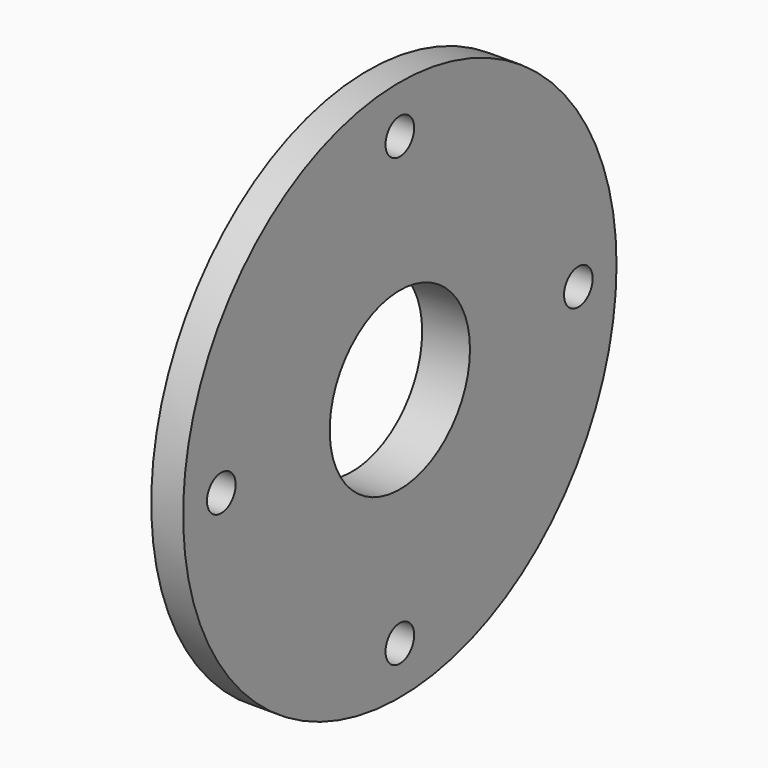
from build123d import *

# Parameters (mm, degrees)
F0_R     = 53.9496
F1_DEPTH = 6.35
F2_R     = 25.9715
F3_DEPTH = 3.175
F4_R     = 17.4625
F5_DEPTH = 9.526
F6_D     = 7.1374


with BuildPart() as f1:
    # F0 (on Right) → F1 (new body)
    with BuildSketch(Plane.YZ):
        Circle(F0_R)
    extrude(amount=-F1_DEPTH)

    # F2 (on face) → F3 (join)
    with BuildSketch(Plane(origin=(-6.35, 0, 0), x_dir=(0, -1, 0), z_dir=(-1, 0, 0))):
        Circle(F2_R)
    extrude(amount=F3_DEPTH)

    # F4 (on face) → F5 (cut, through all)
    with BuildSketch(Plane.YZ):
        Circle(F4_R)
    extrude(amount=-F5_DEPTH, mode=Mode.SUBTRACT)

    # F6 (through all)
    with Locations(Plane.YZ):
        with Locations((0, -44.45), (44.45, 0), (0, 44.45), (-44.45, 0)):
            Hole(F6_D / 2)


solid = f1.part
